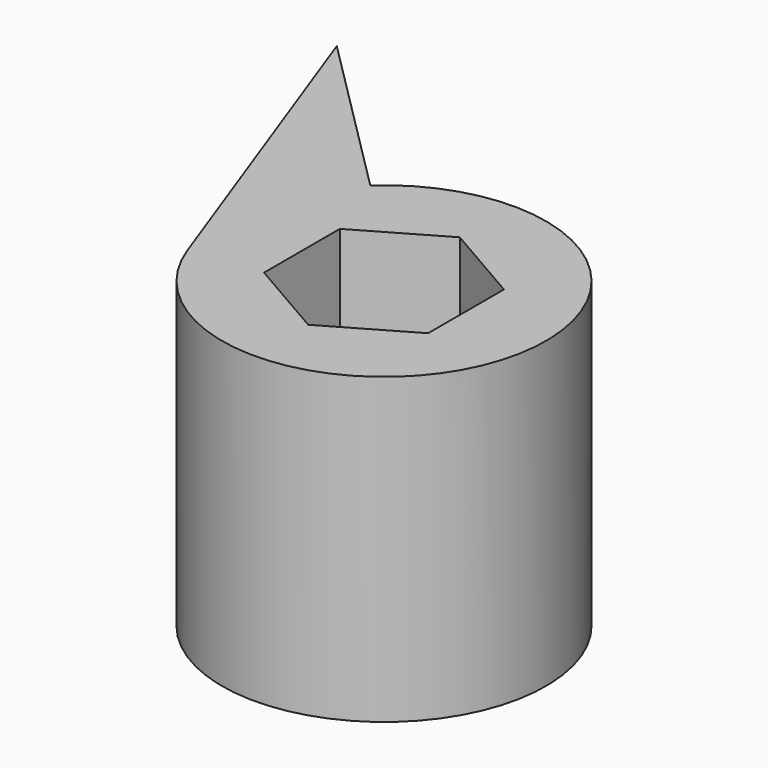
from build123d import *

# Parameters (mm, degrees)
CLONE027_ROLL_ANGLE = 90
PAD014_DEPTH        = 10
PAD006_DEPTH        = 15


with BuildPart() as clone_of_m5countersinkslot002:
    # Sketch013 → Revolution (revolve)
    with BuildSketch(Plane.XY):
        Polygon((0, 20), (5, 20), (5, 0), (2.4, -2.6), (2.4, -45), (0, -45), align=None)
    revolve(axis=Axis((0, 0, 0), (0, 1, 0)))


with BuildPart() as clone_of_m5countersinkslot002_1:
    # Clone027 roll: moved
    add(clone_of_m5countersinkslot002.part.rotate(Axis((0, 0, 0), (1, 0, 0)), CLONE027_ROLL_ANGLE))


with BuildPart() as clone_of_m5countersinkslot002_2:
    # Clone027 placement: moved
    add(clone_of_m5countersinkslot002_1.part.moved(Location((0, 0, 26))))


with BuildPart() as clone_of_din934slot001:
    # Sketch014 → Pad014 (new body)
    with BuildSketch(Plane.XY):
        Polygon((4.05, -2.338269), (4.05, 2.338269), (0, 4.676537), (-4.05, 2.338269), (-4.05, -2.338269), (0, -4.676537), align=None)
    extrude(amount=PAD014_DEPTH)


with BuildPart() as clone_of_din934slot001_1:
    # Clone026 placement: moved
    add(clone_of_din934slot001.part.moved(Location((0, 0, 8))))


with BuildPart() as normalhinge:
    # Clone2D001 → Pad006 (new body)
    with BuildSketch(Plane.XY):
        with BuildLine():
            ThreePointArc((-7.517553, -2.736129), (7.769812, -1.90526), (-5.399017, 5.903441))
            Line((-5.399017, 5.903441), (-13.673915, 14.178338))
            Line((-13.673915, 14.178338), (-7.517553, -2.736129))
        make_face()
    extrude(amount=PAD006_DEPTH)

    # Cut017: cut Clone of DIN934Slot001
    add(clone_of_din934slot001_1.part, mode=Mode.SUBTRACT)

    # Cut007: cut Clone of M5CounterSinkSlot002
    add(clone_of_m5countersinkslot002_2.part, mode=Mode.SUBTRACT)


solid = normalhinge.part
